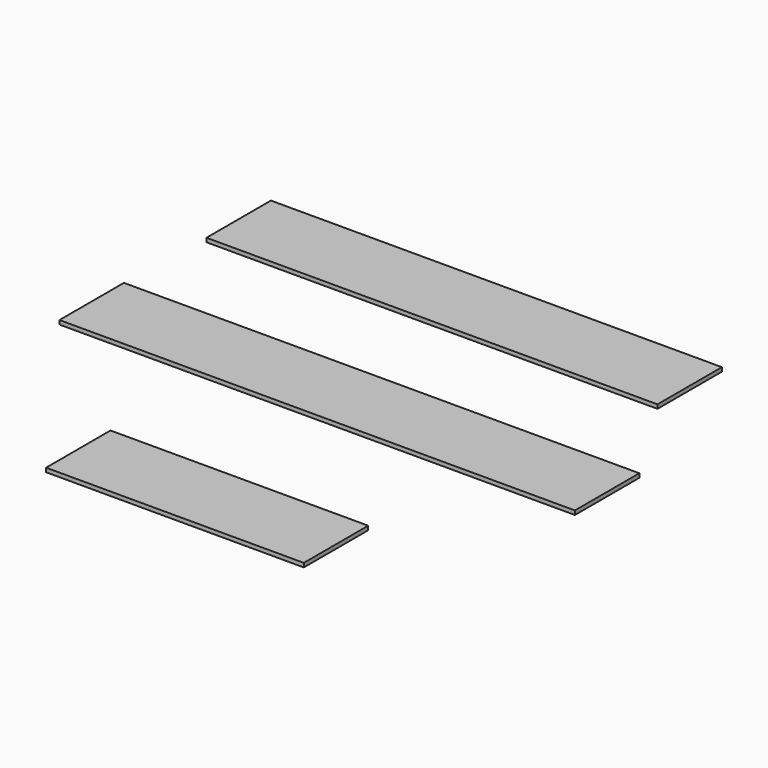
from build123d import *

# Parameters (mm, degrees)
F0_W     = 1219.2
F0_H     = 381
F1_DEPTH = 19.05
F2_W     = 2438.4
F2_H     = 381
F3_DEPTH = 19.05
F4_W     = 2133.6
F4_H     = 381
F5_DEPTH = 18.796
F6_W     = 2438.4
F6_H     = 381
F7_DEPTH = 19.05


with BuildPart() as f1:
    # F0 (on Top) → F1 (new body)
    with BuildSketch(Plane.XY):
        Rectangle(F0_W, F0_H)
    extrude(amount=F1_DEPTH)


with BuildPart() as f3:
    # F2 (on Top) → F3 (new body)
    with BuildSketch(Plane.XY):
        with Locations((-89.558797, 953.159571)):
            Rectangle(F2_W, F2_H)
    extrude(amount=F3_DEPTH)


with BuildPart() as f5:
    # F4 (on Top) → F5 (new body)
    with BuildSketch(Plane.XY):
        with Locations((-229.464537, 1806.882143)):
            Rectangle(F4_W, F4_H)
    extrude(amount=F5_DEPTH)


with BuildPart() as f7:
    # F6 (on Top) → F7 (new body)
    with BuildSketch(Plane.XY):
        with Locations((414.449826, -1243.419886)):
            Rectangle(F6_W, F6_H)
    extrude(amount=F7_DEPTH)


solid = Compound([f1.part, f3.part, f5.part])
